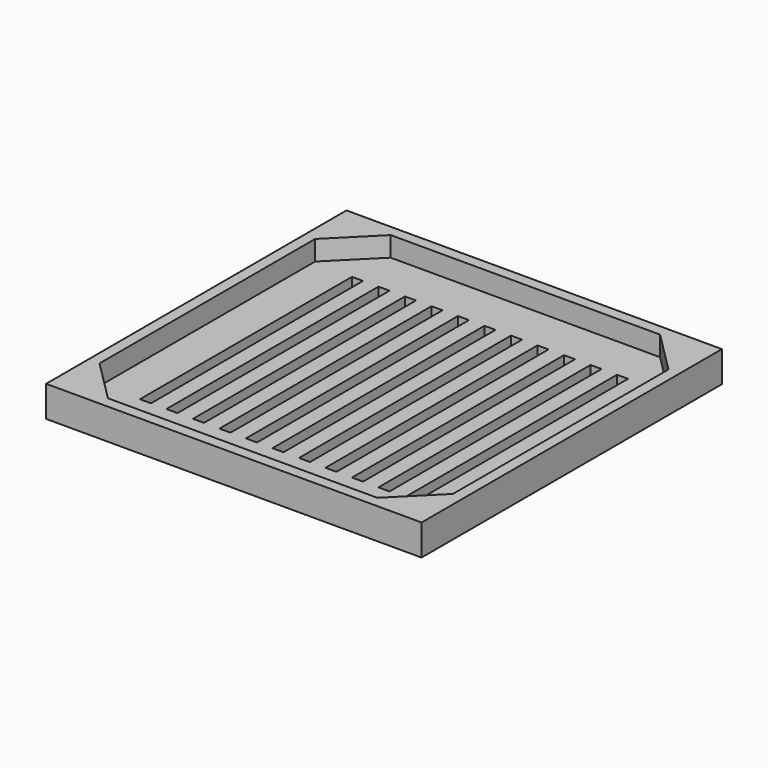
from build123d import *

# Parameters (mm, degrees)
F0_W     = 85
F0_H     = 85
F1_DEPTH = 7
F3_DEPTH = 4.5
F4_W     = 2.5
F4_H     = 60
F5_DEPTH = 25


with BuildPart() as f1:
    # F0 (on Top) → F1 (new body)
    with BuildSketch(Plane.XY):
        Rectangle(F0_W, F0_H)
    extrude(amount=F1_DEPTH)

    # F2 (on face) → F3 (cut)
    with BuildSketch(Plane.XY.offset(7)):
        Polygon((30.5, 40), (-30.5, 40), (-40, 30.5), (-40, -30.5), (-30.5, -40), (30.5, -40), (40, -30.5), (40, 30.5), align=None)
    extrude(amount=-F3_DEPTH, mode=Mode.SUBTRACT)

    # F4 (on face) → F5 (cut)
    with BuildSketch(Plane.XY.offset(7)):
        with Locations((-30.000278, 0)):
            Rectangle(F4_W, F4_H)
        with Locations((-24.000278, 0)):
            Rectangle(F4_W, F4_H)
        with Locations((-18.000278, 0)):
            Rectangle(F4_W, F4_H)
        with Locations((-12.000278, 0)):
            Rectangle(F4_W, F4_H)
        with Locations((-6.000278, 0)):
            Rectangle(F4_W, F4_H)
        with Locations((-0.000278, 0)):
            Rectangle(F4_W, F4_H)
        with Locations((5.999722, 0)):
            Rectangle(F4_W, F4_H)
        with Locations((11.999722, 0)):
            Rectangle(F4_W, F4_H)
        with Locations((17.999722, 0)):
            Rectangle(F4_W, F4_H)
        with Locations((23.999722, 0)):
            Rectangle(F4_W, F4_H)
        with Locations((29.999722, 0)):
            Rectangle(F4_W, F4_H)
    extrude(amount=-F5_DEPTH, mode=Mode.SUBTRACT)


solid = f1.part
